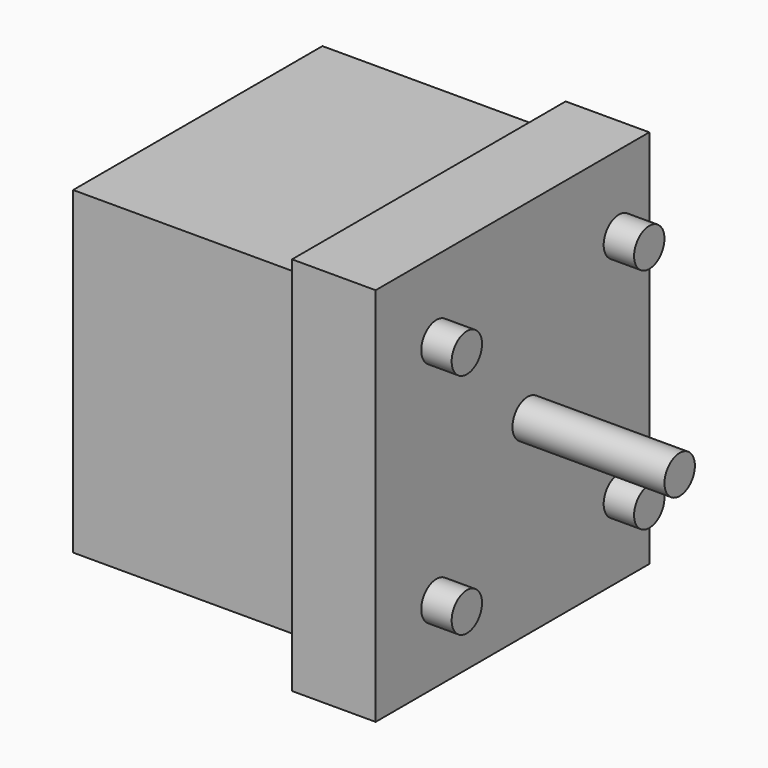
from build123d import *

# Parameters (mm, degrees)
BOX005_W                  = 41
BOX005_H                  = 42
BOX005_DEPTH              = 40
BOX004_W                  = 7
BOX004_H                  = 17
BOX004_DEPTH              = 10
CYLINDER003_R             = 2.5
CYLINDER003_DEPTH         = 25
CYLINDER002_R             = 2.5
CYLINDER002_DEPTH         = 4
BOX006_W                  = 45
BOX006_H                  = 3
BOX006_DEPTH              = 8
BOX007_W                  = 3
BOX007_H                  = 50
BOX007_DEPTH              = 8
BOX003_W                  = 45
BOX003_H                  = 50
BOX003_DEPTH              = 3
FUSION002_ROLL_ANGLE      = 90
FUSION002_PLACEMENT_ANGLE = 90


with BuildPart() as base_motor:
    # Box005 → Box005 (new body)
    with BuildSketch(Plane(origin=(4, 4, 0), x_dir=(1, 0, 0), z_dir=(0, 0, 1))):
        with Locations((20.5, 21)):
            Rectangle(BOX005_W, BOX005_H)
    extrude(amount=BOX005_DEPTH)


with BuildPart() as obj1:
    # Box004 → Box004 (new body)
    with BuildSketch(Plane(origin=(45, 16.5, 0), x_dir=(1, 0, 0), z_dir=(0, 0, 1))):
        with Locations((3.5, 8.5)):
            Rectangle(BOX004_W, BOX004_H)
    extrude(amount=BOX004_DEPTH)


with BuildPart() as motor:
    # Cylinder003 → Cylinder003 (new body)
    with BuildSketch(Plane(origin=(25, 25, 38), x_dir=(1, 0, 0), z_dir=(0, 0, 1))):
        Circle(CYLINDER003_R)
    extrude(amount=CYLINDER003_DEPTH)

    # Fusion003: union base motor, obj1
    add(base_motor.part)
    add(obj1.part)


with BuildPart() as obj2:
    # Cylinder002 → Cylinder002 (new body)
    with BuildSketch(Plane(origin=(10, 10, 43), x_dir=(1, 0, 0), z_dir=(0, 0, 1))):
        Circle(CYLINDER002_R)
    extrude(amount=CYLINDER002_DEPTH)


with BuildPart() as obj3:
    # Link003 base: copy of obj2
    add(obj2.part)


with BuildPart() as obj3_1:
    # Link003 placement: moved
    add(obj3.part.moved(Location((30, 30, 0))))


with BuildPart() as obj4:
    # Link004 base: copy of obj2
    add(obj2.part)


with BuildPart() as obj4_1:
    # Link004 placement: moved
    add(obj4.part.moved(Location((30, 0, 0))))


with BuildPart() as obj5:
    # Link005 base: copy of obj2
    add(obj2.part)


with BuildPart() as obj5_1:
    # Link005 placement: moved
    add(obj5.part.moved(Location((0, 30, 0))))


with BuildPart() as obj6:
    # Box006 → Box006 (new body)
    with BuildSketch(Plane.XY.offset(32)):
        with Locations((22.5, 1.5)):
            Rectangle(BOX006_W, BOX006_H)
    extrude(amount=BOX006_DEPTH)


with BuildPart() as lateral_der:
    # Link006 base: copy of obj6
    add(obj6.part)


with BuildPart() as lateral_der_1:
    # Link006 placement: moved
    add(lateral_der.part.moved(Location((0, 47, 0))))


with BuildPart() as obj7:
    # Box007 → Box007 (new body)
    with BuildSketch(Plane.XY.offset(32)):
        with Locations((1.5, 25)):
            Rectangle(BOX007_W, BOX007_H)
    extrude(amount=BOX007_DEPTH)


with BuildPart() as obj8:
    # Box003 → Box003 (new body)
    with BuildSketch(Plane.XY.offset(40)):
        with Locations((22.5, 25)):
            Rectangle(BOX003_W, BOX003_H)
    extrude(amount=BOX003_DEPTH)

    # Fusion004: union obj6, lateral der, obj7
    add(obj6.part)
    add(lateral_der_1.part)
    add(obj7.part)

    # Fusion002: union motor, obj3, obj4, obj5, obj2
    add(motor.part)
    add(obj3_1.part)
    add(obj4_1.part)
    add(obj5_1.part)
    add(obj2.part)


with BuildPart() as obj8_1:
    # Fusion002 roll: moved
    add(obj8.part.rotate(Axis((0, 0, 0), (1, 0, 0)), FUSION002_ROLL_ANGLE))


with BuildPart() as obj8_2:
    # Fusion002 placement: moved
    add(obj8_1.part.moved(Location((-4, -22.5, 5))).rotate(Axis((-4, -22.5, 5), (0, 0, 1)), FUSION002_PLACEMENT_ANGLE))


solid = obj8_2.part
